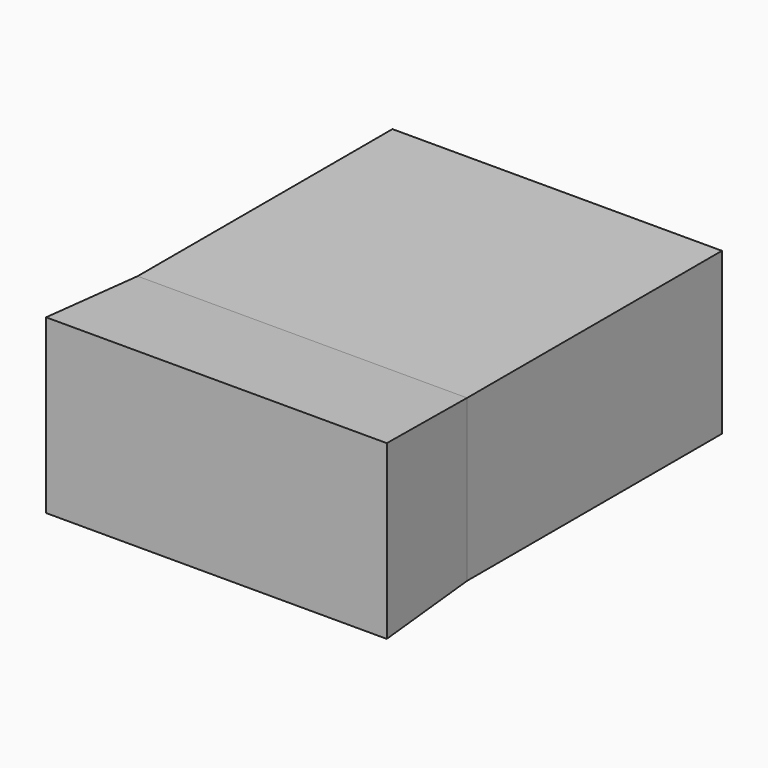
from build123d import *

# Parameters (mm, degrees)
F0_W      = 61.3636001945
F0_H      = 59.3294538558
F1_DEPTH  = 30
F1_FACE_W = 61.3636001945
F1_FACE_H = 30
F2_DEPTH  = 20
F2_TAPER  = -3


with BuildPart() as f1:
    # F0 (on Top) → F1 (new body)
    with BuildSketch(Plane.XY):
        with Locations((-38.7336541899, -9.2384442687)):
            Rectangle(F0_W, F0_H)
    extrude(amount=F1_DEPTH)

    # F1_face (on face) → F2 (join)
    with BuildSketch(Plane(origin=(-38.7336541899, -38.9031711966, 15), x_dir=(1, 0, 0), z_dir=(0, -1, 0))):
        Rectangle(F1_FACE_W, F1_FACE_H)
    extrude(amount=F2_DEPTH, taper=F2_TAPER)


solid = f1.part
